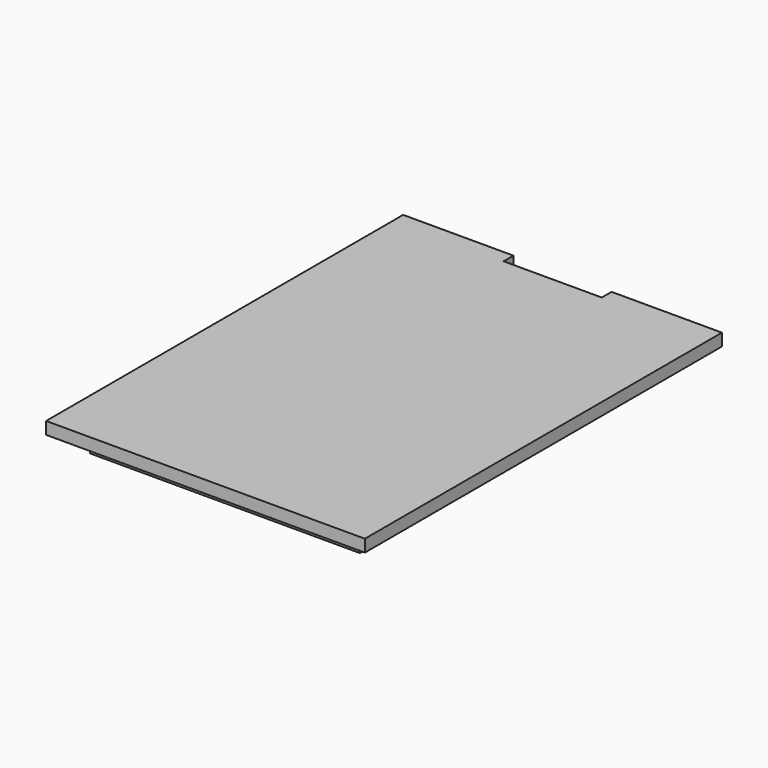
from build123d import *

# Parameters (mm, degrees)
SKETCH_W     = 22
SKETCH_H     = 34.4
PAD_DEPTH    = 1.5
SKETCH001_W  = 26
SKETCH001_H  = 36.4
PAD001_DEPTH = 1
SKETCH002_W  = 8
SKETCH002_H  = 1
POCKET_DEPTH = 1.5


with BuildPart() as part:
    # Sketch → Pad (new body)
    with BuildSketch(Plane.XY):
        Rectangle(SKETCH_W, SKETCH_H)
    extrude(amount=PAD_DEPTH)

    # Sketch001 (on Face6 of Pad) → Pad001 (join)
    with BuildSketch(Plane.XY.offset(1.5)):
        with Locations((0, -1)):
            Rectangle(SKETCH001_W, SKETCH001_H)
    extrude(amount=PAD001_DEPTH)

    # Sketch002 (on Face11 of Pad001) → Pocket (cut)
    with BuildSketch(Plane.XY.offset(2.5)):
        with Locations((0, 16.7)):
            Rectangle(SKETCH002_W, SKETCH002_H)
    extrude(amount=-POCKET_DEPTH, mode=Mode.SUBTRACT)


solid = part.part
